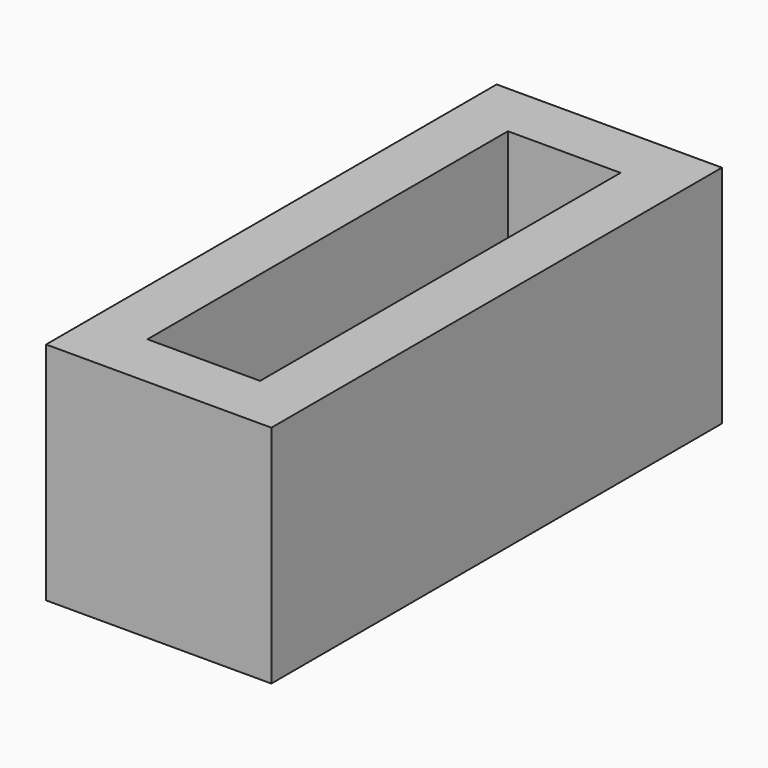
from build123d import *

# Parameters (mm, degrees)
F0_W     = 10
F0_H     = 10
F1_DEPTH = 12.5
F2_T     = -2.5
F3_R     = 1.25
F4_DEPTH = 10.001


with BuildPart() as f1:
    # F0 (on Front) → F1 (new body, symmetric)
    with BuildSketch(Plane.XZ):
        Rectangle(F0_W, F0_H)
    extrude(amount=F1_DEPTH, both=True)

    # F2
    f2_openings = [f1.faces().sort_by_distance(p)[0] for p in [
        (0, 0, 5),
    ]]
    offset(amount=F2_T, openings=f2_openings)

    # F3 (on face) → F4 (cut, through all)
    with BuildSketch(Plane(origin=(0, 0, -5), x_dir=(1, 0, 0), z_dir=(0, 0, -1))):
        with Locations((0, 5)):
            Circle(F3_R)
    extrude(amount=-F4_DEPTH, mode=Mode.SUBTRACT)


solid = f1.part
